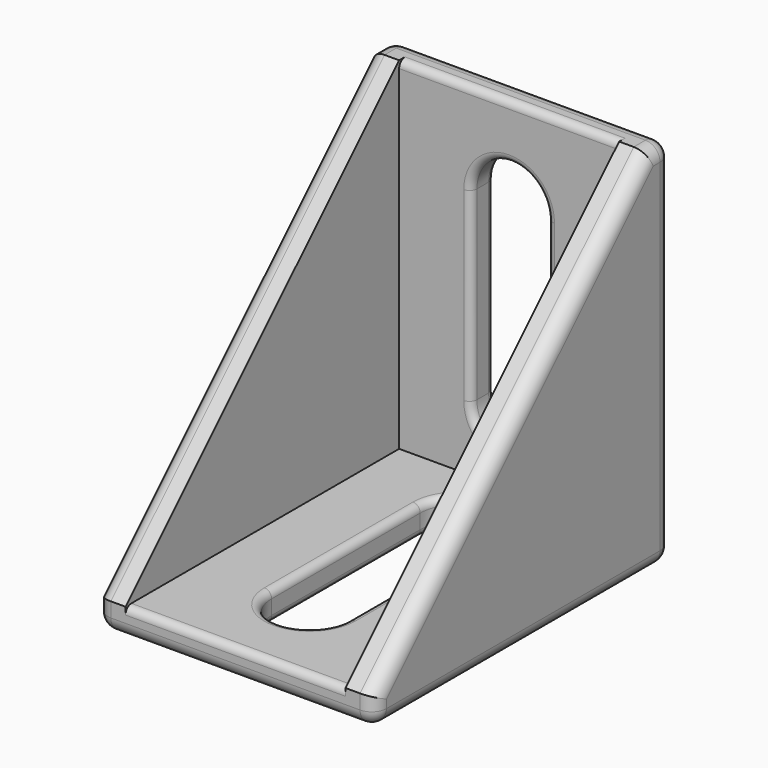
from build123d import *

# Parameters (mm, degrees)
SKETCH010_W     = 19.05
SKETCH010_H     = 25.4
PAD006_DEPTH    = 25.4
POCKET002_DEPTH = 25.401
SKETCH012_W     = 15.05
SKETCH012_H     = 23.4
POCKET003_DEPTH = 23.4
POCKET004_DEPTH = 19.051
FILLET003_R     = 1
FILLET004_R     = 0.5


with BuildPart() as part:
    # Sketch010 → Pad006 (new body)
    with BuildSketch(Plane.XY):
        Rectangle(SKETCH010_W, SKETCH010_H)
        with BuildLine():
            ThreePointArc((2.6035, 6.35), (0, 8.9535), (-2.6035, 6.35))
            Line((-2.6035, 6.35), (-2.6035, -6.35))
            ThreePointArc((-2.6035, -6.35), (0, -8.9535), (2.6035, -6.35))
            Line((2.6035, -6.35), (2.6035, 6.35))
        make_face(mode=Mode.SUBTRACT)
    extrude(amount=PAD006_DEPTH)

    # Sketch011 (on Face4 of Pad006) → Pocket002 (cut, through all)
    with BuildSketch(Plane.XZ.offset(12.7)):
        with BuildLine():
            ThreePointArc((2.6035, 19.05), (0, 21.6535), (-2.6035, 19.05))
            Line((-2.6035, 19.05), (-2.6035, 6.35))
            ThreePointArc((-2.6035, 6.35), (0, 3.7465), (2.6035, 6.35))
            Line((2.6035, 6.35), (2.6035, 19.05))
        make_face()
    extrude(amount=-POCKET002_DEPTH, mode=Mode.SUBTRACT)

    # Sketch012 (on Face5 of Pocket002) → Pocket003 (cut)
    with BuildSketch(Plane.XY.offset(25.4)):
        with Locations((0, -1)):
            Rectangle(SKETCH012_W, SKETCH012_H)
    extrude(amount=-POCKET003_DEPTH, mode=Mode.SUBTRACT)

    # Sketch013 (on Face9 of Pocket003) → Pocket004 (cut, through all)
    with BuildSketch(Plane(origin=(-9.525, 0, 0), x_dir=(0, -1, 0), z_dir=(-1, 0, 0))):
        Polygon((-10.7, 25.4), (12.7, 2), (12.7, 25.4), align=None)
    extrude(amount=-POCKET004_DEPTH, mode=Mode.SUBTRACT)

    # Fillet003
    fillet003_edges = [part.edges().sort_by_distance(p)[0] for p in [
        (0, -12.7, 0),
        (0, 12.7, 25.4),
        (9.525, -1, 13.7),
        (9.525, 12.7, 12.7),
        (9.525, 0, 0),
        (0, 12.7, 0),
        (-9.525, -1, 13.7),
        (9.525, -12.7, 1),
        (-9.525, -12.7, 1),
        (9.525, 11.7, 25.4),
        (-9.525, 11.7, 25.4),
        (-9.525, 0, 0),
        (-9.525, 12.7, 12.7),
    ]]
    fillet(fillet003_edges, radius=FILLET003_R)

    # Fillet004
    fillet004_edges = [part.edges().sort_by_distance(p)[0] for p in [
        (0, -12.7, 2),
        (0, 10.7, 25.4),
        (2.6035, 0, 2),
        (2.6035, 10.7, 12.7),
        (0, 12.7, 21.6535),
        (0, -8.9535, 0),
    ]]
    fillet(fillet004_edges, radius=FILLET004_R)


solid = part.part
